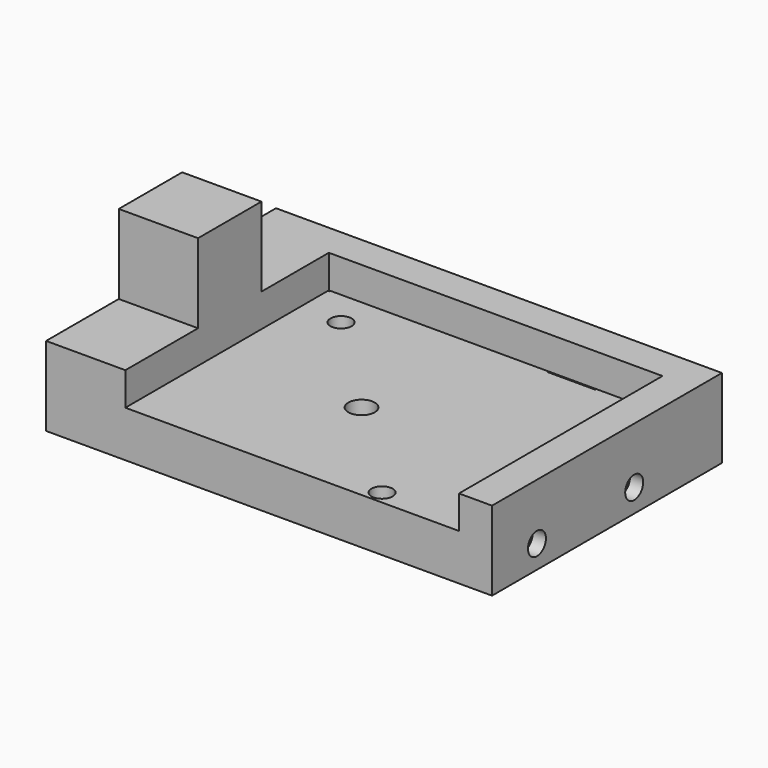
from build123d import *

# Parameters (mm, degrees)
SKETCH_W        = 67.5
SKETCH_H        = 43.5
SKETCH_R        = 2
SKETCH_R_2      = 1.6
SKETCH_W_2      = 7.2
SKETCH_H_2      = 3.2
SKETCH_W_3      = 3.2
SKETCH_H_3      = 7.2
PAD_DEPTH       = 7
PAD001_DEPTH    = 5
SKETCH002_W     = 12
SKETCH002_H     = 12
PAD002_DEPTH    = 12
SKETCH003_R     = 4.2
POCKET_DEPTH    = 5
SKETCH004_R     = 1.7
POCKET001_DEPTH = 5
SKETCH005_R     = 1.7
POCKET002_DEPTH = 5


with BuildPart() as part:
    # Sketch → Pad (new body)
    with BuildSketch(Plane.XY):
        Rectangle(SKETCH_W, SKETCH_H)
        with Locations((0, -4.25)):
            Circle(SKETCH_R, mode=Mode.SUBTRACT)
        with Locations((-15.5, 11.25)):
            Circle(SKETCH_R_2, mode=Mode.SUBTRACT)
        with Locations((15.5, -19.75)):
            Circle(SKETCH_R_2, mode=Mode.SUBTRACT)
        with Locations((15.15, 18.15)):
            Rectangle(SKETCH_W_2, SKETCH_H_2, mode=Mode.SUBTRACT)
        with Locations((-25.15, 18.15)):
            Rectangle(SKETCH_W_2, SKETCH_H_2, mode=Mode.SUBTRACT)
        with Locations((30.15, 5.15)):
            Rectangle(SKETCH_W_3, SKETCH_H_3, mode=Mode.SUBTRACT)
        with Locations((30.15, -13.15)):
            Rectangle(SKETCH_W_3, SKETCH_H_3, mode=Mode.SUBTRACT)
    extrude(amount=PAD_DEPTH)

    # Sketch001 → Pad001 (new body)
    with BuildSketch(Plane.XY.offset(7)):
        Polygon((28.75, -21.75), (33.75, -21.75), (33.75, 21.75), (-33.75, 21.75), (-33.75, -21.75), (-21.75, -21.75), (-21.75, 16.75), (28.75, 16.75), align=None)
    extrude(amount=PAD001_DEPTH)

    # Sketch002 → Pad002 (new body)
    with BuildSketch(Plane.XY.offset(12)):
        with Locations((-27.75, -2)):
            Rectangle(SKETCH002_W, SKETCH002_H)
    extrude(amount=PAD002_DEPTH)

    # Sketch003 → Pocket (cut)
    with BuildSketch(Plane(origin=(-33.75, 0, 0), x_dir=(0, -1, 0), z_dir=(-1, 0, 0))):
        with Locations((2, 18)):
            Circle(SKETCH003_R)
    extrude(amount=-POCKET_DEPTH, mode=Mode.SUBTRACT)

    # Sketch004 → Pocket001 (cut)
    with BuildSketch(Plane(origin=(0, 21.75, 0), x_dir=(-1, 0, 0), z_dir=(0, 1, 0))):
        with Locations((25, 3.75)):
            Circle(SKETCH004_R)
        with Locations((-15, 3.75)):
            Circle(SKETCH004_R)
    extrude(amount=-POCKET001_DEPTH, mode=Mode.SUBTRACT)

    # Sketch005 → Pocket002 (cut)
    with BuildSketch(Plane.YZ.offset(33.75)):
        with Locations((5.15, 3.5)):
            Circle(SKETCH005_R)
        with Locations((-13.25, 3.5)):
            Circle(SKETCH005_R)
    extrude(amount=-POCKET002_DEPTH, mode=Mode.SUBTRACT)


solid = part.part
